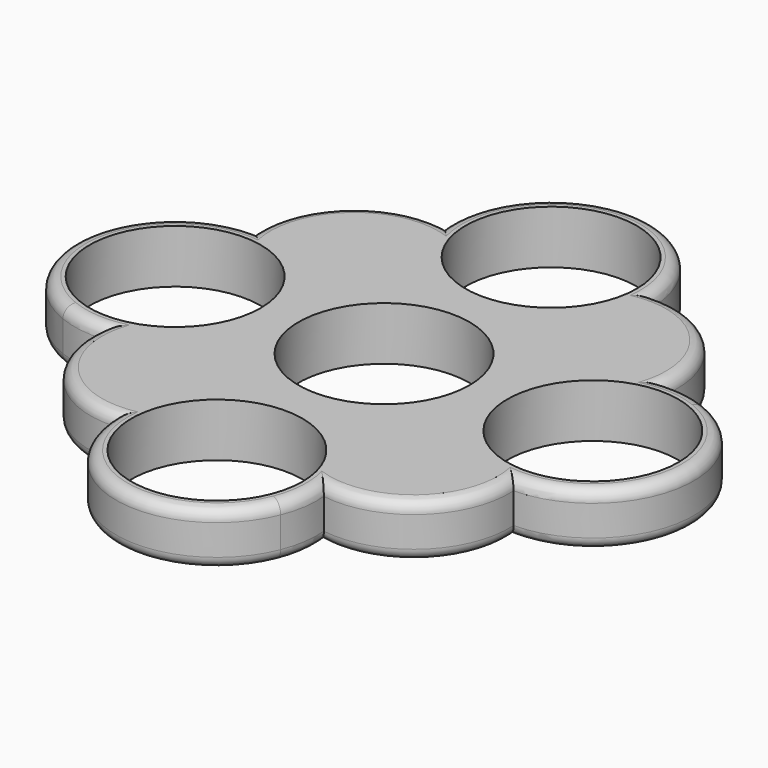
from build123d import *

# Parameters (mm, degrees)
F0_R     = 11.2
F1_DEPTH = 7
F2_R     = 1.5
F3_R     = 1.5


with BuildPart() as f1:
    # F0 (on Top) → F1 (new body)
    with BuildSketch(Plane.XY):
        with BuildLine():
            ThreePointArc((26.3003475196, 13.1577845696), (17.8154771585, 18.5771696517), (13.1989174864, 27.5242438386))
            ThreePointArc((13.1989174864, 27.5242438386), (2.4045697184, 40.3343347729), (-12.2623769601, 32.2413100841))
            ThreePointArc((-12.2623769601, 32.2413100841), (-12.4782333133, 29.2358853108), (-13.1577845696, 26.3003475196))
            ThreePointArc((-13.1577845696, 26.3003475196), (-18.5771696517, 17.8154771585), (-27.5242438386, 13.1989174864))
            ThreePointArc((-27.5242438386, 13.1989174864), (-40.3343347729, 2.4045697184), (-32.2413100841, -12.2623769601))
            ThreePointArc((-32.2413100841, -12.2623769601), (-29.2358853108, -12.4782333133), (-26.3003475196, -13.1577845696))
            ThreePointArc((-26.3003475196, -13.1577845696), (-17.8154771585, -18.5771696517), (-13.1989174864, -27.5242438386))
            ThreePointArc((-13.1989174864, -27.5242438386), (-2.4045697184, -40.3343347729), (12.2623769601, -32.2413100841))
            ThreePointArc((12.2623769601, -32.2413100841), (12.4782333133, -29.2358853108), (13.1577845696, -26.3003475196))
            ThreePointArc((13.1577845696, -26.3003475196), (18.5771696517, -17.8154771585), (27.5242438386, -13.1989174864))
            ThreePointArc((27.5242438386, -13.1989174864), (40.3343347729, -2.4045697184), (32.2413100841, 12.2623769601))
            ThreePointArc((32.2413100841, 12.2623769601), (29.2358853108, 12.4782333133), (26.3003475196, 13.1577845696))
        make_face()
        with Locations((-27.3551959544, 0)):
            Circle(F0_R, mode=Mode.SUBTRACT)
        with Locations((0, -27.3551959544)):
            Circle(F0_R, mode=Mode.SUBTRACT)
        Circle(F0_R, mode=Mode.SUBTRACT)
        with Locations((27.3551959544, 0)):
            Circle(F0_R, mode=Mode.SUBTRACT)
        with Locations((0, 27.3551959544)):
            Circle(F0_R, mode=Mode.SUBTRACT)
        with BuildLine():
            ThreePointArc((26.3003475196, 13.1577845696), (23.1675710934, 23.4579884328), (13.1989174864, 27.5242438386))
            ThreePointArc((13.1989174864, 27.5242438386), (17.8154771585, 18.5771696517), (26.3003475196, 13.1577845696))
        make_face()
        with BuildLine():
            ThreePointArc((-13.1577845696, 26.3003475196), (-12.4782333133, 29.2358853108), (-12.2623769601, 32.2413100841))
            ThreePointArc((-12.2623769601, 32.2413100841), (-13.0525825834, 29.3224498534), (-13.1577845696, 26.3003475196))
        make_face()
        with BuildLine():
            ThreePointArc((32.2413100841, 12.2623769601), (29.3224498534, 13.0525825834), (26.3003475196, 13.1577845696))
            ThreePointArc((26.3003475196, 13.1577845696), (29.2358853108, 12.4782333133), (32.2413100841, 12.2623769601))
        make_face()
        with BuildLine():
            ThreePointArc((-27.5242438386, 13.1989174864), (-18.5771696517, 17.8154771585), (-13.1577845696, 26.3003475196))
            ThreePointArc((-13.1577845696, 26.3003475196), (-23.4579884328, 23.1675710934), (-27.5242438386, 13.1989174864))
        make_face()
        with BuildLine():
            ThreePointArc((13.1577845696, -26.3003475196), (23.4579884328, -23.1675710934), (27.5242438386, -13.1989174864))
            ThreePointArc((27.5242438386, -13.1989174864), (18.5771696517, -17.8154771585), (13.1577845696, -26.3003475196))
        make_face()
        with BuildLine():
            ThreePointArc((-26.3003475196, -13.1577845696), (-29.2358853108, -12.4782333133), (-32.2413100841, -12.2623769601))
            ThreePointArc((-32.2413100841, -12.2623769601), (-29.3224498534, -13.0525825834), (-26.3003475196, -13.1577845696))
        make_face()
        with BuildLine():
            ThreePointArc((12.2623769601, -32.2413100841), (13.0525825834, -29.3224498534), (13.1577845696, -26.3003475196))
            ThreePointArc((13.1577845696, -26.3003475196), (12.4782333133, -29.2358853108), (12.2623769601, -32.2413100841))
        make_face()
        with BuildLine():
            ThreePointArc((-13.1989174864, -27.5242438386), (-17.8154771585, -18.5771696517), (-26.3003475196, -13.1577845696))
            ThreePointArc((-26.3003475196, -13.1577845696), (-23.1675710934, -23.4579884328), (-13.1989174864, -27.5242438386))
        make_face()
    extrude(amount=F1_DEPTH)

    # F2
    f2_edges = [f1.edges().sort_by_distance(p)[0] for p in [
        (40.540987, 0.612294, 7),
        (23.457988, -23.167571, 7),
        (0.612294, -40.540987, 7),
        (-23.167571, -23.457988, 7),
        (-40.540987, -0.612294, 7),
        (-23.457988, 23.167571, 7),
        (-0.612294, 40.540987, 7),
        (23.167571, 23.457988, 7),
    ]]
    fillet(f2_edges, radius=F2_R)

    # F3
    f3_edges = [f1.edges().sort_by_distance(p)[0] for p in [
        (0.612294, -40.540987, 0),
        (23.457988, -23.167571, 0),
        (40.540987, 0.612294, 0),
        (23.167571, 23.457988, 0),
        (-0.612294, 40.540987, 0),
        (-23.457988, 23.167571, 0),
        (-40.540987, -0.612294, 0),
        (-23.167571, -23.457988, 0),
    ]]
    fillet(f3_edges, radius=F3_R)


solid = f1.part
